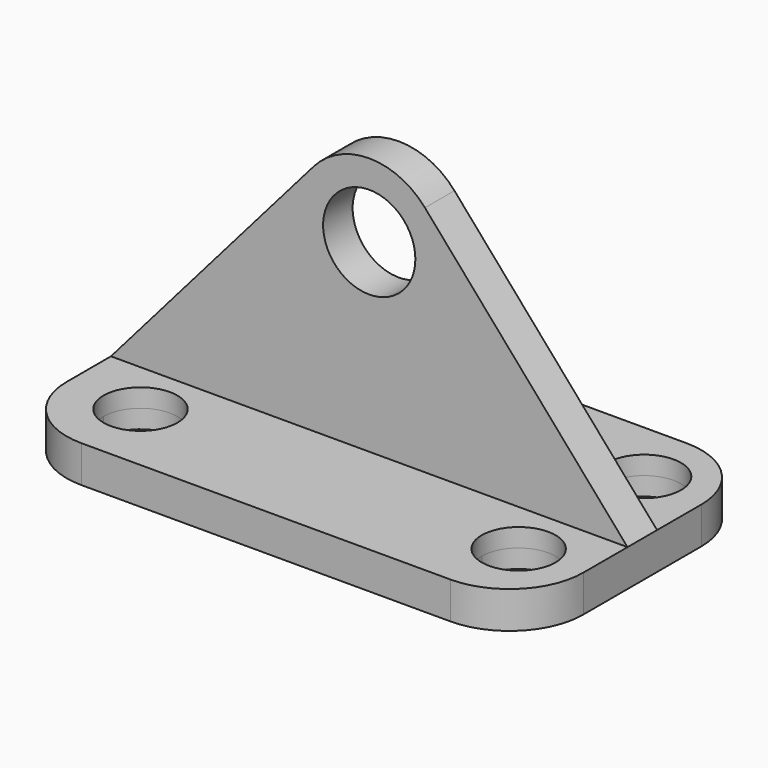
from build123d import *

# Parameters (mm, degrees)
F0_W     = 140
F0_H     = 10
F1_DEPTH = 40
F0_R     = 12.5
F2_DEPTH = 5
F3_R     = 20
F5_D     = 20
F5_DEPTH = 5.001
F6_D     = 20
F7_D     = 20
F7_DEPTH = 5.001
F8_D     = 20
F9_D     = 20
F9_DEPTH = 5.001
F10_D    = 20


with BuildPart() as f1:
    # F0 (on Front) → F1 (new body, symmetric)
    with BuildSketch(Plane.XZ):
        Rectangle(F0_W, F0_H)
    extrude(amount=F1_DEPTH, both=True)

    # F0 (on Front) → F2 (join, symmetric)
    with BuildSketch(Plane.XZ):
        Rectangle(F0_W, F0_H)
        with BuildLine():
            Line((-70, 5), (70, 5))
            Line((70, 5), (15.0900003586, 68.126000502))
            ThreePointArc((15.0900003586, 68.126000502), (0, 75), (-15.0900003586, 68.126000502))
            Line((-15.0900003586, 68.126000502), (-70, 5))
        make_face()
        with Locations((0, 55)):
            Circle(F0_R, mode=Mode.SUBTRACT)
    extrude(amount=F2_DEPTH, both=True)

    # F3
    f3_edges = [f1.edges().sort_by_distance(p)[0] for p in [
        (-70, 40, 0),
        (-70, -40, 0),
        (70, 40, 0),
        (70, -40, 0),
    ]]
    fillet(f3_edges, radius=F3_R)

    # F5 (through all, one way)
    with BuildSketch(Plane.XY):
        with Locations((52.5, 22.5)):
            Circle(F5_D / 2)
    extrude(amount=-F5_DEPTH, mode=Mode.SUBTRACT)

    # F6 (through all)
    with Locations(Plane(origin=(0, 0, 0), x_dir=(1, 0, 0), z_dir=(0, 0, -1))):
        with Locations((52.5, -22.5)):
            Hole(F6_D / 2)

    # F7 (through all, one way)
    with BuildSketch(Plane.XY):
        with Locations((-50, 20)):
            Circle(F7_D / 2)
    extrude(amount=-F7_DEPTH, mode=Mode.SUBTRACT)

    # F8 (through all)
    with Locations(Plane(origin=(0, 0, 0), x_dir=(1, 0, 0), z_dir=(0, 0, -1))):
        with Locations((-50, -20)):
            Hole(F8_D / 2)

    # F9 (through all, one way)
    with BuildSketch(Plane.XY):
        with Locations((-50, -20), (52.5, -20)):
            Circle(F9_D / 2)
    extrude(amount=-F9_DEPTH, mode=Mode.SUBTRACT)

    # F10 (through all)
    with Locations(Plane(origin=(0, 0, 0), x_dir=(1, 0, 0), z_dir=(0, 0, -1))):
        with Locations((-50, 20), (52.5, 20)):
            Hole(F10_D / 2)


solid = f1.part
